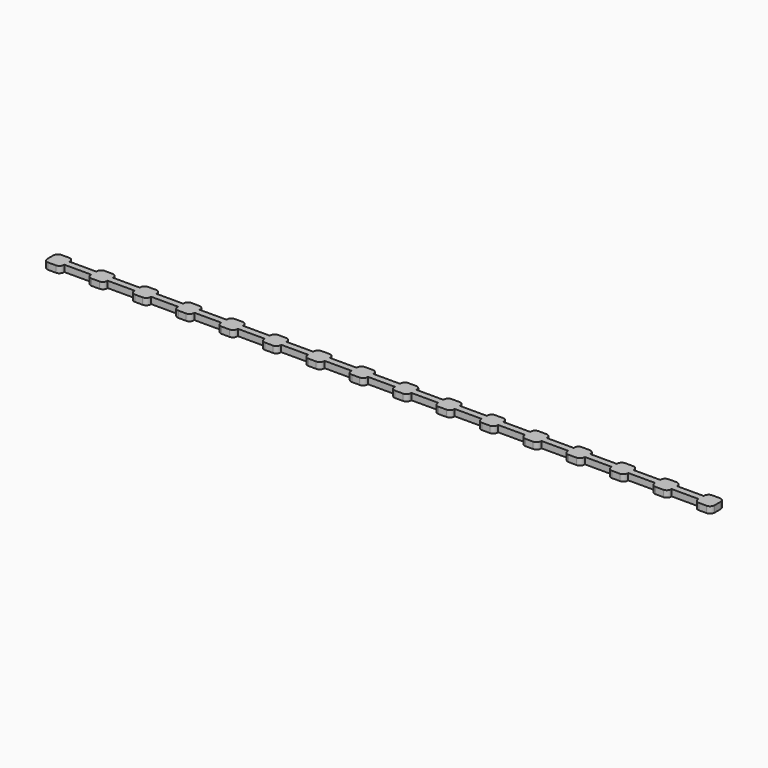
from build123d import *

# Parameters (mm, degrees)
PAD_DEPTH           = 1.5
LINEARPATTERN_COUNT = 15
LINEARPATTERN_PITCH = 10


with BuildPart() as part:
    # Sketch → Pad (new body)
    with BuildSketch(Plane.XY):
        with BuildLine():
            Line((8.1, 0.75), (1.9, 0.75))
            Line((1.9, 0.75), (1.9, 0.9))
            ThreePointArc((1.9, 0.9), (1.607107, 1.607107), (0.9, 1.9))
            Line((0.9, 1.9), (-0.9, 1.9))
            ThreePointArc((-0.9, 1.9), (-1.607107, 1.607107), (-1.9, 0.9))
            Line((-1.9, 0.9), (-1.9, -0.9))
            ThreePointArc((-1.9, -0.9), (-1.607107, -1.607107), (-0.9, -1.9))
            Line((-0.9, -1.9), (0.9, -1.9))
            ThreePointArc((0.9, -1.9), (1.607107, -1.607107), (1.9, -0.9))
            Line((1.9, -0.9), (1.9, -0.75))
            Line((1.9, -0.75), (8.1, -0.75))
            Line((8.1, -0.9), (8.1, -0.75))
            ThreePointArc((8.1, -0.9), (8.392893, -1.607107), (9.1, -1.9))
            Line((9.1, -1.9), (10.9, -1.9))
            ThreePointArc((10.9, -1.9), (11.607107, -1.607107), (11.9, -0.9))
            Line((11.9, -0.9), (11.9, 0.9))
            ThreePointArc((11.9, 0.9), (11.607107, 1.607107), (10.9, 1.9))
            Line((9.1, 1.9), (10.9, 1.9))
            ThreePointArc((9.1, 1.9), (8.392893, 1.607107), (8.1, 0.9))
            Line((8.1, 0.9), (8.1, 0.75))
        make_face()
    pad = extrude(amount=PAD_DEPTH)

    # LinearPattern: Pad ×15
    with Locations(*[(i * LINEARPATTERN_PITCH, 0, 0) for i in range(1, LINEARPATTERN_COUNT)]):
        add(pad)


solid = part.part
